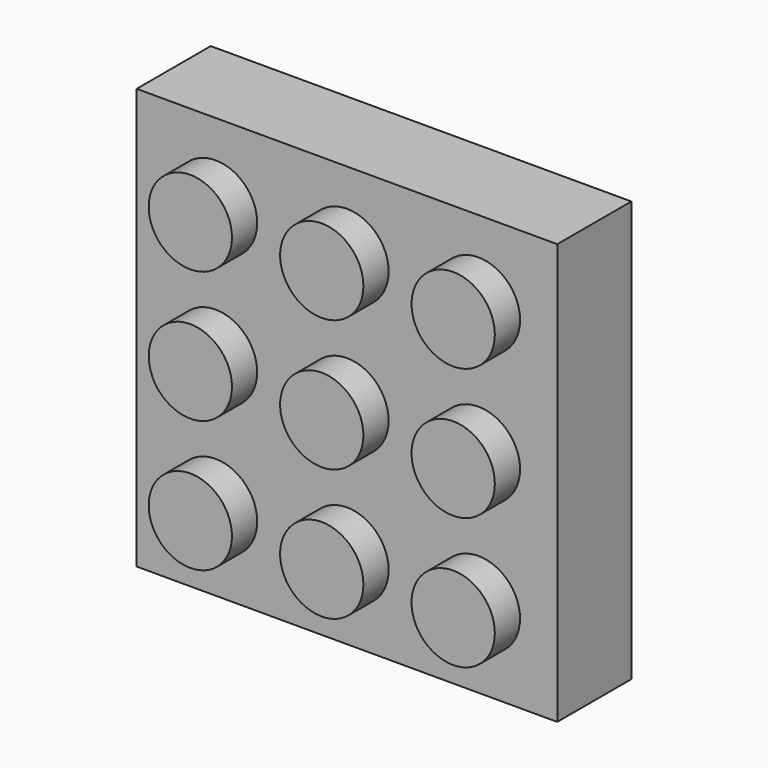
from build123d import *

# Parameters (mm, degrees)
F0_W     = 25.4
F0_H     = 25.4
F1_DEPTH = 5.588
F3_T     = -2.54
F2_R     = 2.5146
F4_DEPTH = 1.905


with BuildPart() as f1:
    # F0 (on Front) → F1 (new body)
    with BuildSketch(Plane.XZ):
        Rectangle(F0_W, F0_H)
    extrude(amount=F1_DEPTH)

    # F3
    f3_openings = [f1.faces().sort_by_distance(p)[0] for p in [
        (0, 0, 0),
    ]]
    offset(amount=F3_T, openings=f3_openings)

    # F2 (on face) → F4 (join)
    with BuildSketch(Plane.XZ.offset(5.588)):
        with Locations((-7.9375, 7.9375)):
            Circle(F2_R)
        with Locations((0, 7.9375)):
            Circle(F2_R)
        with Locations((7.9375, 7.9375)):
            Circle(F2_R)
        with Locations((7.9375, 0)):
            Circle(F2_R)
        Circle(F2_R)
        with Locations((-7.9375, 0)):
            Circle(F2_R)
        with Locations((-7.9375, -7.9375)):
            Circle(F2_R)
        with Locations((0, -7.9375)):
            Circle(F2_R)
        with Locations((7.9375, -7.9375)):
            Circle(F2_R)
    extrude(amount=F4_DEPTH)


solid = f1.part
